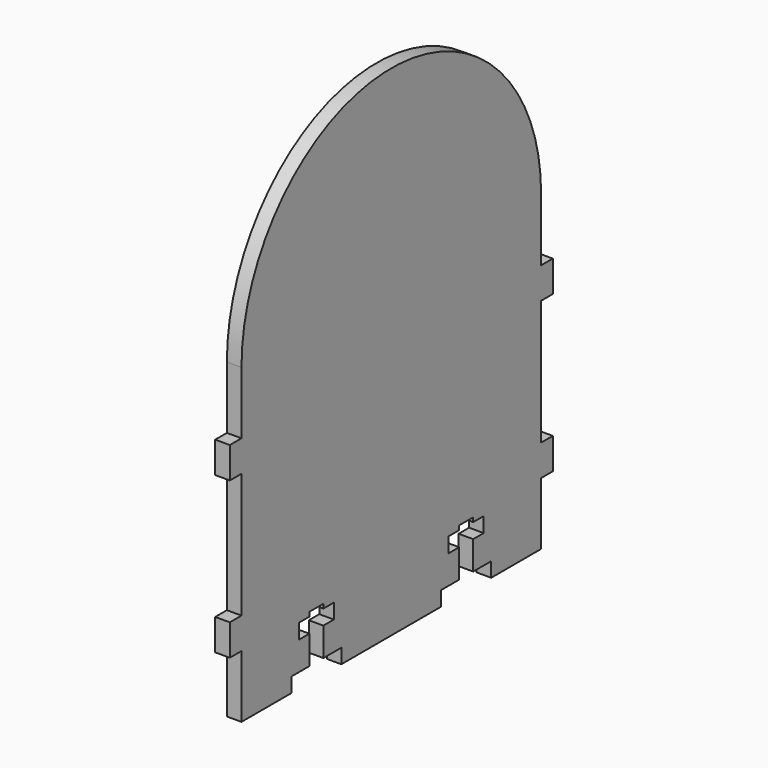
from build123d import *

# Parameters (mm, degrees)
F0_W     = 2.9718
F0_H     = 6.35
F1_DEPTH = 2.9718


with BuildPart() as f1:
    # F0 (on Right) → F1 (new body)
    with BuildSketch(Plane.YZ):
        Polygon((38.1, 19.05), (38.1, 31.75), (-38.1, 31.75), (-38.1, 19.05), (-38.1, 12.7), (-38.1, -12.7), (-41.0718, -12.7), (-41.0718, -19.05), (-38.1, -19.05), (-38.1, -31.75), (-25.4, -31.75), (-25.4, -28.7782), (-20.828, -28.7782), (-20.828, -22.967306), (-23.495, -22.967306), (-23.495, -19.919306), (-20.828, -19.919306), (-20.828, -19.05), (-17.272, -19.05), (-17.272, -19.919306), (-14.605, -19.919306), (-14.605, -22.967306), (-17.272, -22.967306), (-17.272, -28.7782), (-12.7, -28.7782), (-12.7, -31.75), (12.7, -31.75), (12.7, -28.7782), (17.272, -28.7782), (17.272, -22.967306), (14.605, -22.967306), (14.605, -19.919306), (17.272, -19.919306), (17.272, -19.05), (20.828, -19.05), (20.828, -19.919306), (23.495, -19.919306), (23.495, -22.967306), (20.828, -22.967306), (20.828, -28.7782), (25.4, -28.7782), (25.4, -31.75), (38.1, -31.75), (38.1, -19.05), (41.0718, -19.05), (41.0718, -12.7), (38.1, -12.7), (38.1, 12.7), (41.0718, 12.7), (41.0718, 19.05), align=None)
        with BuildLine():
            Line((-38.1, 31.75), (38.1, 31.75))
            ThreePointArc((38.1, 31.75), (0, 69.85), (-38.1, 31.75))
        make_face()
        with Locations((-39.5859, 15.875)):
            Rectangle(F0_W, F0_H)
        Polygon((38.1, 19.05), (38.1, 31.75), (-38.1, 31.75), (-38.1, 19.05), (-38.1, 12.7), (-38.1, -12.7), (-41.0718, -12.7), (-41.0718, -19.05), (-38.1, -19.05), (-38.1, -31.75), (-25.4, -31.75), (-25.4, -28.7782), (-20.828, -28.7782), (-20.828, -22.967306), (-23.495, -22.967306), (-23.495, -19.919306), (-20.828, -19.919306), (-20.828, -19.05), (-17.272, -19.05), (-17.272, -19.919306), (-14.605, -19.919306), (-14.605, -22.967306), (-17.272, -22.967306), (-17.272, -28.7782), (-12.7, -28.7782), (-12.7, -31.75), (12.7, -31.75), (12.7, -28.7782), (17.272, -28.7782), (17.272, -22.967306), (14.605, -22.967306), (14.605, -19.919306), (17.272, -19.919306), (17.272, -19.05), (20.828, -19.05), (20.828, -19.919306), (23.495, -19.919306), (23.495, -22.967306), (20.828, -22.967306), (20.828, -28.7782), (25.4, -28.7782), (25.4, -31.75), (38.1, -31.75), (38.1, -19.05), (41.0718, -19.05), (41.0718, -12.7), (38.1, -12.7), (38.1, 12.7), (41.0718, 12.7), (41.0718, 19.05), align=None)
        Polygon((38.1, 19.05), (38.1, 31.75), (-38.1, 31.75), (-38.1, 19.05), (-38.1, 12.7), (-38.1, -12.7), (-41.0718, -12.7), (-41.0718, -19.05), (-38.1, -19.05), (-38.1, -31.75), (-25.4, -31.75), (-25.4, -28.7782), (-20.828, -28.7782), (-20.828, -22.967306), (-23.495, -22.967306), (-23.495, -19.919306), (-20.828, -19.919306), (-20.828, -19.05), (-17.272, -19.05), (-17.272, -19.919306), (-14.605, -19.919306), (-14.605, -22.967306), (-17.272, -22.967306), (-17.272, -28.7782), (-12.7, -28.7782), (-12.7, -31.75), (12.7, -31.75), (12.7, -28.7782), (17.272, -28.7782), (17.272, -22.967306), (14.605, -22.967306), (14.605, -19.919306), (17.272, -19.919306), (17.272, -19.05), (20.828, -19.05), (20.828, -19.919306), (23.495, -19.919306), (23.495, -22.967306), (20.828, -22.967306), (20.828, -28.7782), (25.4, -28.7782), (25.4, -31.75), (38.1, -31.75), (38.1, -19.05), (41.0718, -19.05), (41.0718, -12.7), (38.1, -12.7), (38.1, 12.7), (41.0718, 12.7), (41.0718, 19.05), align=None)
        Polygon((38.1, 19.05), (38.1, 31.75), (-38.1, 31.75), (-38.1, 19.05), (-38.1, 12.7), (-38.1, -12.7), (-41.0718, -12.7), (-41.0718, -19.05), (-38.1, -19.05), (-38.1, -31.75), (-25.4, -31.75), (-25.4, -28.7782), (-20.828, -28.7782), (-20.828, -22.967306), (-23.495, -22.967306), (-23.495, -19.919306), (-20.828, -19.919306), (-20.828, -19.05), (-17.272, -19.05), (-17.272, -19.919306), (-14.605, -19.919306), (-14.605, -22.967306), (-17.272, -22.967306), (-17.272, -28.7782), (-12.7, -28.7782), (-12.7, -31.75), (12.7, -31.75), (12.7, -28.7782), (17.272, -28.7782), (17.272, -22.967306), (14.605, -22.967306), (14.605, -19.919306), (17.272, -19.919306), (17.272, -19.05), (20.828, -19.05), (20.828, -19.919306), (23.495, -19.919306), (23.495, -22.967306), (20.828, -22.967306), (20.828, -28.7782), (25.4, -28.7782), (25.4, -31.75), (38.1, -31.75), (38.1, -19.05), (41.0718, -19.05), (41.0718, -12.7), (38.1, -12.7), (38.1, 12.7), (41.0718, 12.7), (41.0718, 19.05), align=None)
    extrude(amount=F1_DEPTH)


solid = f1.part
